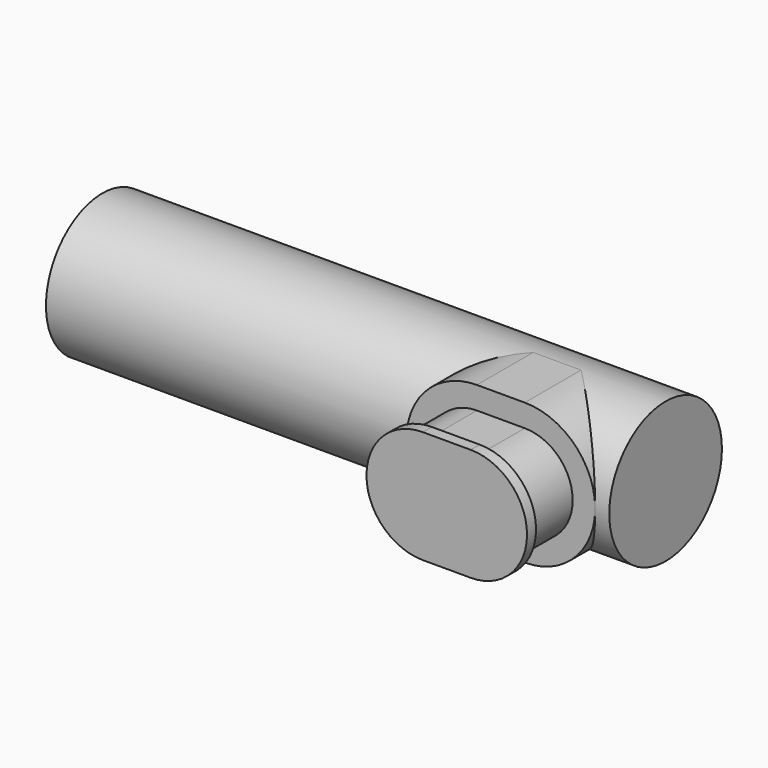
from build123d import *

# Parameters (mm, degrees)
F0_R     = 12.5
F1_DEPTH = 50
F3_DEPTH = 12.5
F5_DEPTH = 10
F7_DEPTH = 2


with BuildPart() as f1:
    # F0 (on Right) → F1 (new body, symmetric)
    with BuildSketch(Plane.YZ):
        Circle(F0_R)
    extrude(amount=F1_DEPTH, both=True)

    # F2 (on Front) → F3 (join)
    with BuildSketch(Plane.XZ):
        with BuildLine():
            Line((35, 12.5), (26.5, 12.5))
            ThreePointArc((26.5, 12.5), (14, 0), (26.5, -12.5))
            Line((26.5, -12.5), (35, -12.5))
            ThreePointArc((35, -12.5), (47.5, 0), (35, 12.5))
        make_face()
    extrude(amount=F3_DEPTH)

    # F4 (on face) → F5 (join)
    with BuildSketch(Plane.XZ.offset(12.5)):
        with BuildLine():
            Line((35, 8.5), (26.5, 8.5))
            ThreePointArc((26.5, 8.5), (18, 0), (26.5, -8.5))
            Line((26.5, -8.5), (35, -8.5))
            ThreePointArc((35, -8.5), (43.5, 0), (35, 8.5))
        make_face()
    extrude(amount=F5_DEPTH)

    # F6 (on face) → F7 (join)
    with BuildSketch(Plane.XZ.offset(22.5)):
        with BuildLine():
            Line((35, 10), (26.5, 10))
            ThreePointArc((26.5, 10), (16.5, 0), (26.5, -10))
            Line((26.5, -10), (35, -10))
            ThreePointArc((35, -10), (45, 0), (35, 10))
        make_face()
    extrude(amount=F7_DEPTH)


solid = f1.part
